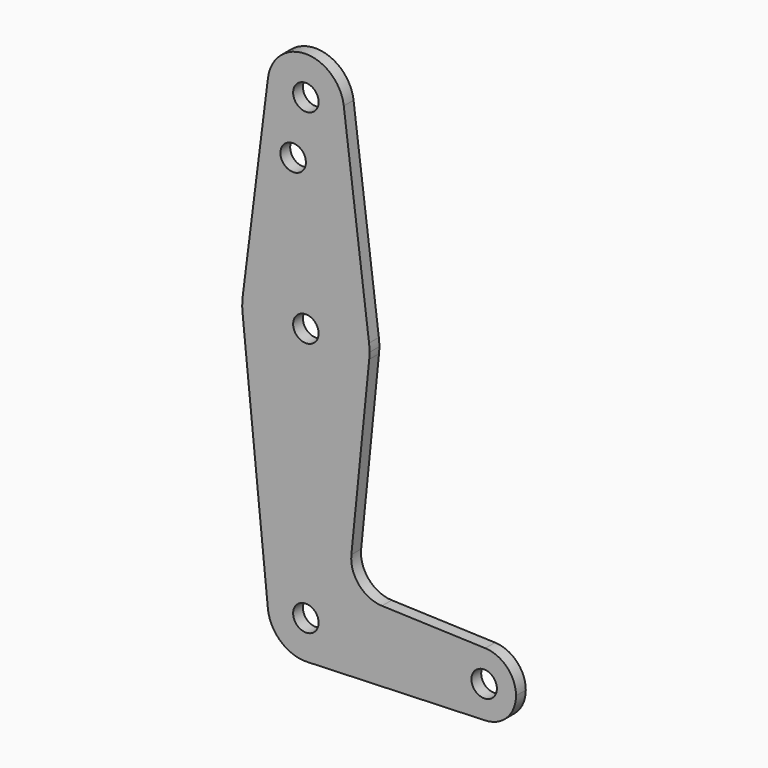
from build123d import *

# Parameters (mm, degrees)
F0_R     = 3.175
F1_DEPTH = 3.048


with BuildPart() as f1:
    # F0 (on Front) → F1 (new body)
    with BuildSketch(Plane.XZ):
        with BuildLine():
            Line((37.98784, 8.019278), (31.687645, -41.986972))
            ThreePointArc((31.687645, -41.986972), (47.438133, -28.096347), (63.188621, -41.986972))
            Line((63.188621, -41.986972), (56.888426, 8.019278))
            ThreePointArc((56.888426, 8.019278), (56.944438, 7.425136), (56.963133, 6.828653))
            ThreePointArc((56.963133, 6.828653), (46.84165, -2.677652), (37.98784, 8.019278))
        make_face()
        with Locations((44.263133, -7.446147)):
            Circle(F0_R, mode=Mode.SUBTRACT)
        with BuildLine():
            ThreePointArc((56.888426, 8.019278), (47.438133, 16.353653), (37.98784, 8.019278))
            ThreePointArc((37.98784, 8.019278), (46.84165, -2.677652), (56.963133, 6.828653))
            ThreePointArc((56.963133, 6.828653), (56.944438, 7.425136), (56.888426, 8.019278))
        make_face()
        with Locations((47.438133, 6.828653)):
            Circle(F0_R, mode=Mode.SUBTRACT)
        with BuildLine():
            ThreePointArc((31.642707, -45.558847), (47.438133, -59.846347), (63.233558, -45.558847))
            ThreePointArc((63.233558, -45.558847), (63.293227, -44.766093), (63.313133, -43.971347))
            ThreePointArc((63.313133, -43.971347), (63.281974, -42.977208), (63.188621, -41.986972))
            ThreePointArc((63.188621, -41.986972), (47.438133, -28.096347), (31.687645, -41.986972))
            ThreePointArc((31.687645, -41.986972), (31.564389, -43.771641), (31.642707, -45.558847))
        make_face()
        with Locations((47.438133, -43.971347)):
            Circle(F0_R, mode=Mode.SUBTRACT)
        with BuildLine():
            ThreePointArc((92.171615, -115.403783), (83.950633, -107.471347), (92.171615, -99.538911))
            Line((92.171615, -99.538911), (66.405733, -98.618113))
            ThreePointArc((66.405733, -98.618113), (60.699333, -95.899988), (58.779319, -89.877965))
            Line((58.779319, -89.877965), (63.233558, -45.558847))
            ThreePointArc((63.233558, -45.558847), (47.438133, -59.846347), (31.642707, -45.558847))
            Line((31.642707, -45.558847), (37.960877, -108.423847))
            ThreePointArc((37.960877, -108.423847), (46.961285, -97.958291), (56.963133, -107.471347))
            ThreePointArc((56.963133, -107.471347), (54.292541, -114.085174), (47.778311, -116.99027))
            Line((47.778311, -116.99027), (92.171615, -115.403783))
        make_face()
        with BuildLine():
            ThreePointArc((37.960877, -108.423847), (41.175749, -114.648267), (47.778311, -116.99027))
            ThreePointArc((47.778311, -116.99027), (54.292541, -114.085174), (56.963133, -107.471347))
            ThreePointArc((56.963133, -107.471347), (46.961285, -97.958291), (37.960877, -108.423847))
        make_face()
        with Locations((47.438133, -107.471347)):
            Circle(F0_R, mode=Mode.SUBTRACT)
        with BuildLine():
            ThreePointArc((92.171615, -115.403783), (97.60014, -112.98287), (99.825633, -107.471347))
            ThreePointArc((99.825633, -107.471347), (97.60014, -101.959824), (92.171615, -99.538911))
            ThreePointArc((92.171615, -99.538911), (83.950633, -107.471347), (92.171615, -115.403783))
        make_face()
        with Locations((91.888133, -107.471347)):
            Circle(F0_R, mode=Mode.SUBTRACT)
    extrude(amount=F1_DEPTH)


solid = f1.part
